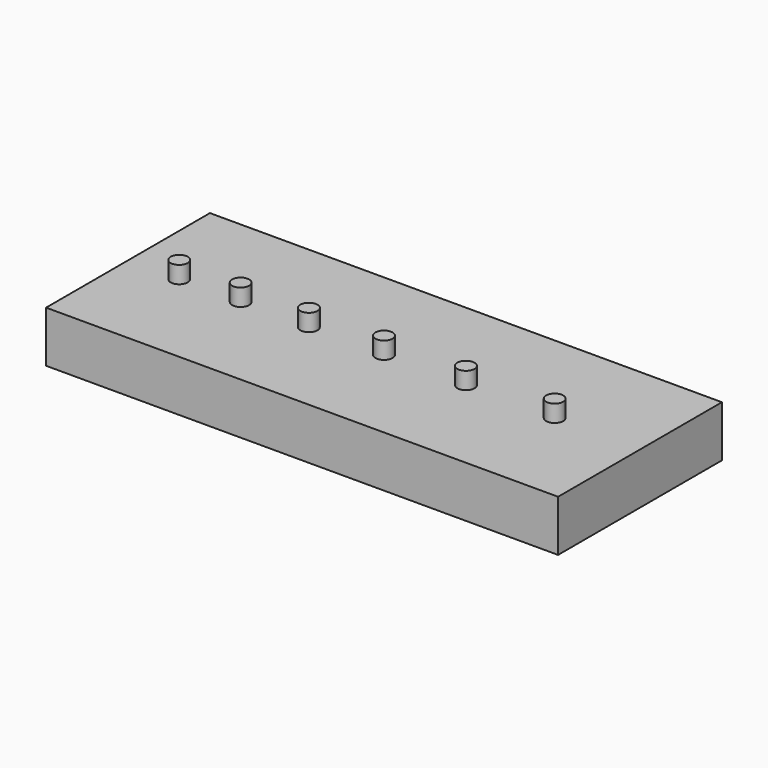
from build123d import *

# Parameters (mm, degrees)
F0_W     = 150
F0_H     = 60
F1_DEPTH = 15
F2_R     = 2.5
F3_DEPTH = 5


with BuildPart() as f1:
    # F0 (on Top) → F1 (new body)
    with BuildSketch(Plane.XY):
        with Locations((16.186949, -2.148032)):
            Rectangle(F0_W, F0_H)
    extrude(amount=F1_DEPTH)

    # F2 (on face) → F3 (join)
    with BuildSketch(Plane.XY.offset(15)):
        with Locations((-43.813051, -2.148032)):
            Circle(F2_R)
        with Locations((-25.813051, -2.148032)):
            Circle(F2_R)
        with Locations((-5.813051, -2.148032)):
            Circle(F2_R)
        with Locations((16.186949, -2.148032)):
            Circle(F2_R)
        with Locations((40.186949, -2.148032)):
            Circle(F2_R)
        with Locations((66.186949, -2.148032)):
            Circle(F2_R)
    extrude(amount=F3_DEPTH)


solid = f1.part
